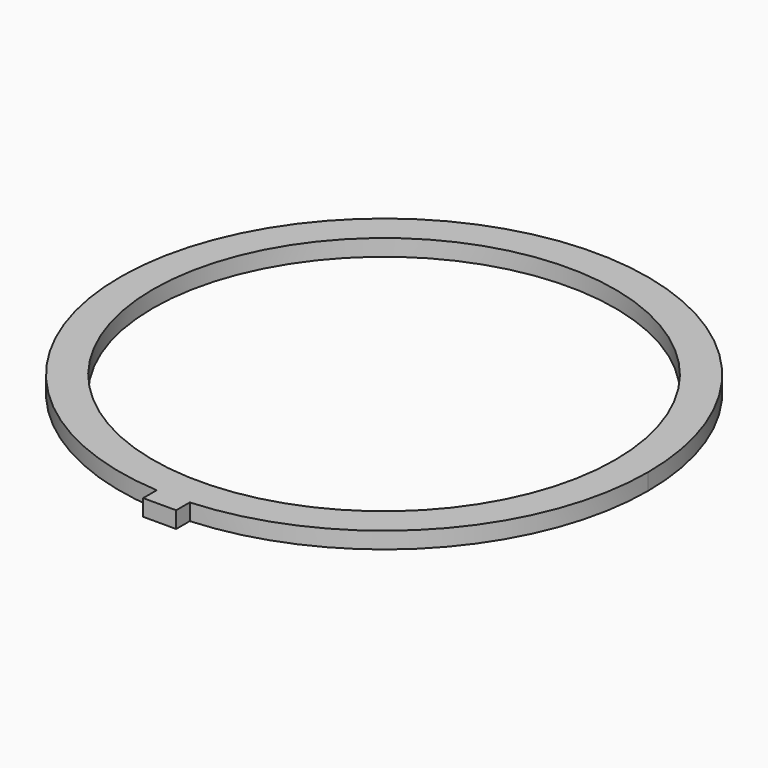
from build123d import *

# Parameters (mm, degrees)
F0_R     = 44.45
F1_DEPTH = 3.175


with BuildPart() as f1:
    # F0 (on Top) → F1 (new body)
    with BuildSketch(Plane.XY):
        with BuildLine():
            ThreePointArc((3.175, -50.700684167), (37.0265445323, -34.7803824016), (50.8, 0))
            ThreePointArc((50.8, 0), (-34.7803824016, 37.0265445323), (-3.175, -50.700684167))
            Line((-3.175, -50.700684167), (-3.175, -47.625))
            Line((-3.175, -47.625), (3.175, -47.625))
            Line((3.175, -47.625), (3.175, -50.700684167))
        make_face()
        Circle(F0_R, mode=Mode.SUBTRACT)
        with BuildLine():
            Line((-3.175, -47.625), (-3.175, -50.700684167))
            ThreePointArc((-3.175, -50.700684167), (0, -50.8), (3.175, -50.700684167))
            Line((3.175, -50.700684167), (3.175, -47.625))
            Line((3.175, -47.625), (-3.175, -47.625))
        make_face()
        with BuildLine():
            ThreePointArc((3.175, -50.700684167), (0, -50.8), (-3.175, -50.700684167))
            Line((-3.175, -50.700684167), (-3.175, -53.975))
            Line((-3.175, -53.975), (3.175, -53.975))
            Line((3.175, -53.975), (3.175, -50.700684167))
        make_face()
    extrude(amount=F1_DEPTH)


solid = f1.part
